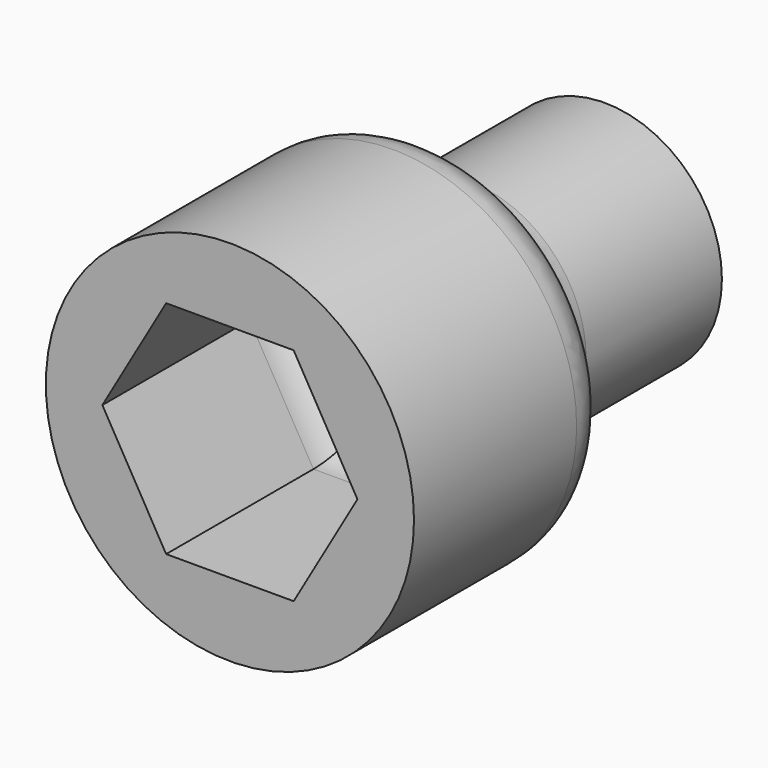
from build123d import *

# Parameters (mm, degrees)
F3_DEPTH = 5
F5_R     = 1.5
F6_DEPTH = 7
F7_R     = 1.5
F8_R     = 0.5


with BuildPart() as f1:
    # F0 (on Top) → F1 (revolve)
    with BuildSketch(Plane.XY):
        Polygon((3.5, 1), (3.5, 7), (0, 7), (0, -7), (5.5, -7), (5.5, 0), align=None)
    revolve(axis=Axis((0, -5.739396, 0), (0, -1, 0)))

    # F2 (on face) → F3 (cut)
    with BuildSketch(Plane(origin=(0, 7, 0), x_dir=(-1, 0, 0), z_dir=(0, 1, 0))):
        Polygon((0.92376, -1.6), (1.847521, 0), (0.92376, 1.6), (-0.92376, 1.6), (-1.847521, 0), (-0.92376, -1.6), align=None)
    extrude(amount=-F3_DEPTH, mode=Mode.SUBTRACT)

    # F5
    f5_edges = [f1.edges().sort_by_distance(p)[0] for p in [
        (-5.5, 0, 0),
        (-3.5, 1, 0),
    ]]
    fillet(f5_edges, radius=F5_R)

    # F4 (on face) → F6 (cut)
    with BuildSketch(Plane.XZ.offset(7)):
        Polygon((1.905256, -3.3), (3.810512, 0), (1.905256, 3.3), (-1.905256, 3.3), (-3.810512, 0), (-1.905256, -3.3), align=None)
    extrude(amount=-F6_DEPTH, mode=Mode.SUBTRACT)

    # F7
    f7_edges = [f1.edges().sort_by_distance(p)[0] for p in [
        (0, 0, -3.3),
        (2.857884, 0, -1.65),
        (2.857884, 0, 1.65),
        (0, 0, 3.3),
        (-2.857884, 0, 1.65),
        (-2.857884, 0, -1.65),
    ]]
    fillet(f7_edges, radius=F7_R)

    # F8
    f8_edges = [f1.edges().sort_by_distance(p)[0] for p in [
        (0, 2, -1.6),
        (-1.385641, 2, -0.8),
        (1.385641, 2, -0.8),
        (-1.385641, 2, 0.8),
        (0, 2, 1.6),
        (1.385641, 2, 0.8),
    ]]
    fillet(f8_edges, radius=F8_R)


solid = f1.part
